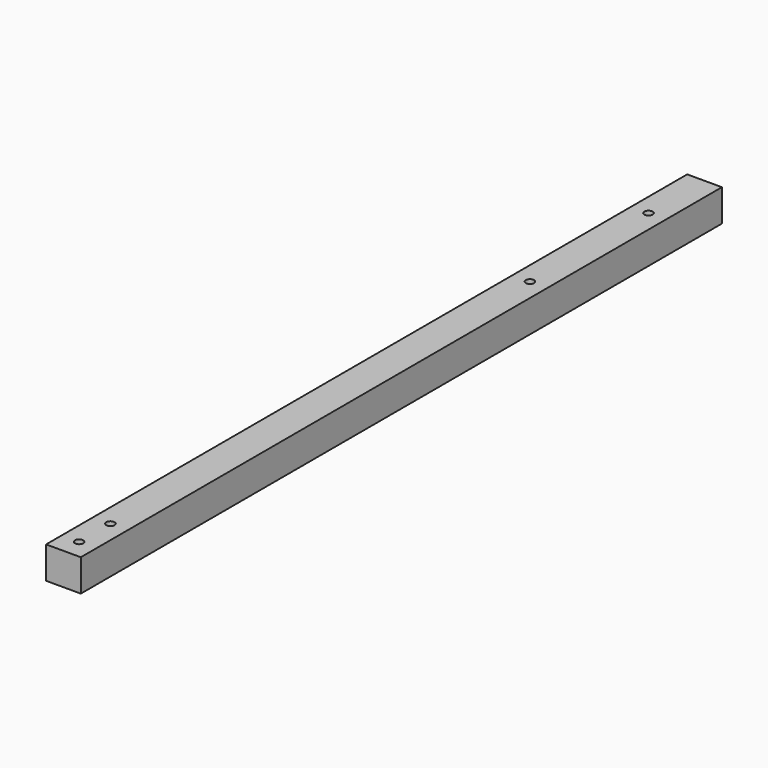
from build123d import *

# Parameters (mm, degrees)
F0_W     = 13
F0_H     = 12
F1_DEPTH = 300
F2_R     = 1.55
F3_DEPTH = 12.001
F4_R     = 1.55
F5_DEPTH = 25


with BuildPart() as f1:
    # F0 (on Front) → F1 (new body)
    with BuildSketch(Plane.XZ):
        Rectangle(F0_W, F0_H)
    extrude(amount=-F1_DEPTH)

    # F2 (on face) → F3 (cut, through all)
    with BuildSketch(Plane.XY.offset(6)):
        with Locations((0, 7.3)):
            Circle(F2_R)
        with Locations((0, 22)):
            Circle(F2_R)
    extrude(amount=-F3_DEPTH, mode=Mode.SUBTRACT)

    # F4 (on face) → F5 (cut)
    with BuildSketch(Plane.XY.offset(6)):
        with Locations((0, 273.777529)):
            Circle(F4_R)
        with Locations((0, 218.277529)):
            Circle(F4_R)
    extrude(amount=-F5_DEPTH, mode=Mode.SUBTRACT)


solid = f1.part
